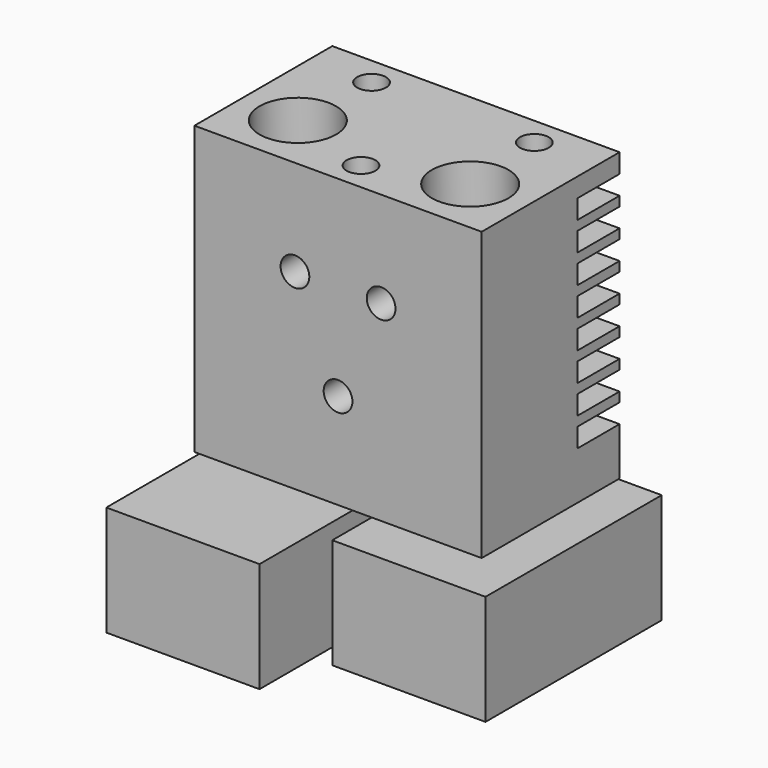
from build123d import *

# Parameters (mm, degrees)
F0_W      = 30
F0_H      = 30
F1_DEPTH  = 18
F2_R      = 4
F2_R_2    = 1.5
F3_DEPTH  = 6.5
F4_R      = 1.5
F5_DEPTH  = 5
F6_W      = 5.5
F6_H      = 2
F7_DEPTH  = 30
F8_R      = 1.475
F9_DEPTH  = 2.1
F10_W     = 16
F10_H     = 23
F10_R     = 1.475
F11_W     = 16
F11_H     = 23
F11_R     = 1.475
F12_DEPTH = 11.5


with BuildPart() as f1:
    # F0 (on Front) → F1 (new body)
    with BuildSketch(Plane.XZ):
        with Locations((15, -15)):
            Rectangle(F0_W, F0_H)
    extrude(amount=F1_DEPTH)

    # F2 (on face) → F3 (cut)
    with BuildSketch(Plane.XY):
        with Locations((6, -12)):
            Circle(F2_R)
        with Locations((24, -12)):
            Circle(F2_R)
        with Locations((6.5, -3)):
            Circle(F2_R_2)
        with Locations((23.5, -3)):
            Circle(F2_R_2)
        with Locations((15, -15)):
            Circle(F2_R_2)
    extrude(amount=-F3_DEPTH, mode=Mode.SUBTRACT)

    # F4 (on face) → F5 (cut)
    with BuildSketch(Plane.XZ.offset(18)):
        with Locations((19.5, -10)):
            Circle(F4_R)
        with Locations((15, -20)):
            Circle(F4_R)
        with Locations((10.5, -10)):
            Circle(F4_R)
    extrude(amount=-F5_DEPTH, mode=Mode.SUBTRACT)

    # F6 (on face) → F7 (cut, through all)
    with BuildSketch(Plane.YZ.offset(30)):
        with Locations((-2.75, -3)):
            Rectangle(F6_W, F6_H)
        with Locations((-2.75, -6)):
            Rectangle(F6_W, F6_H)
        with Locations((-2.75, -9)):
            Rectangle(F6_W, F6_H)
        with Locations((-2.75, -12)):
            Rectangle(F6_W, F6_H)
        with Locations((-2.75, -15)):
            Rectangle(F6_W, F6_H)
        with Locations((-2.75, -18)):
            Rectangle(F6_W, F6_H)
        with Locations((-2.75, -21)):
            Rectangle(F6_W, F6_H)
        with Locations((-2.75, -24)):
            Rectangle(F6_W, F6_H)
    extrude(amount=-F7_DEPTH, mode=Mode.SUBTRACT)

    # F8 (on face) → F9 (join)
    with BuildSketch(Plane(origin=(0, 0, -30), x_dir=(1, 0, 0), z_dir=(0, 0, -1))):
        with Locations((6, 12)):
            Circle(F8_R)
        with Locations((24, 12)):
            Circle(F8_R)
    extrude(amount=F9_DEPTH)

    # F10 (on face) + F11 (on face) → F12 (join)
    with BuildSketch(Plane(origin=(0, 0, -32.1), x_dir=(1, 0, 0), z_dir=(0, 0, -1))):
        with Locations((24, 8.5)):
            Rectangle(F10_W, F10_H)
        with Locations((24, 12)):
            Circle(F10_R, mode=Mode.SUBTRACT)
    with BuildSketch(Plane(origin=(0, 0, -32.1), x_dir=(1, 0, 0), z_dir=(0, 0, -1))):
        with Locations((6, 15.5)):
            Rectangle(F11_W, F11_H)
        with Locations((6, 12)):
            Circle(F11_R, mode=Mode.SUBTRACT)
    extrude(amount=F12_DEPTH)


solid = f1.part
